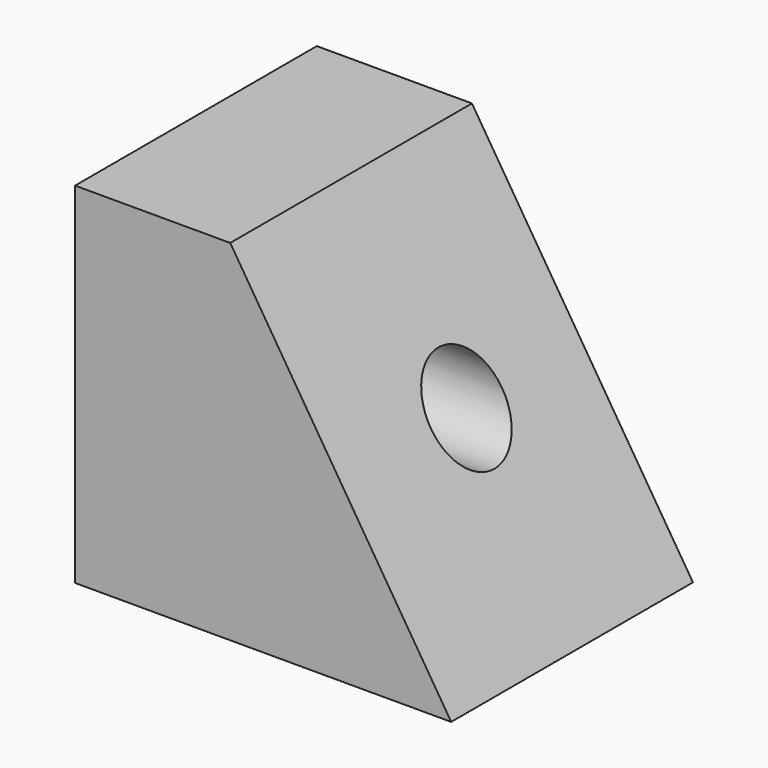
from build123d import *

# Parameters (mm, degrees)
F1_DEPTH = 76.2
F2_R     = 11.185893
F3_DEPTH = 114.3


with BuildPart() as f1:
    # F0 (on Front) → F1 (new body)
    with BuildSketch(Plane.XZ):
        Polygon((4.192664, 50.399311), (-34.938864, 50.399311), (-34.938864, -37.821319), (59.920155, -37.821319), align=None)
    extrude(amount=-F1_DEPTH)

    # F2 (on Right) → F3 (cut, symmetric)
    with BuildSketch(Plane.YZ):
        with Locations((39.830305, 6.551037)):
            Circle(F2_R)
    extrude(amount=F3_DEPTH, both=True, mode=Mode.SUBTRACT)


solid = f1.part
